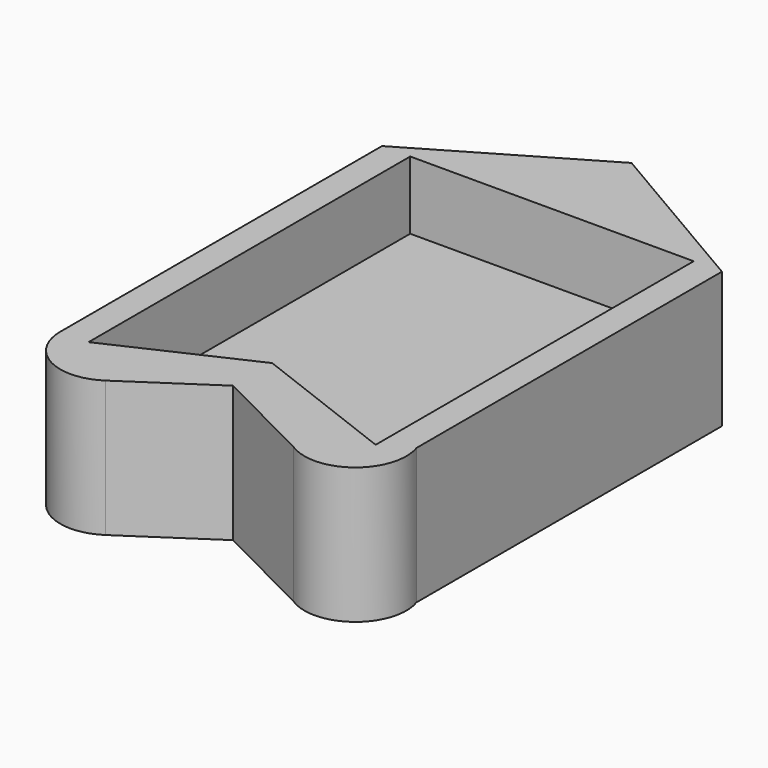
from build123d import *

# Parameters (mm, degrees)
F1_DEPTH = 25.4
F2_DEPTH = 50.8


with BuildPart() as f1:
    # F0 (on Top) → F1 (new body)
    with BuildSketch(Plane.XY):
        Polygon((-29.24404, 0), (-67.34404, 0), (-67.34404, -150.194625), (-29.24404, -132.600497), align=None)
        Polygon((38.567703, -148.530203), (38.567703, 0), (0.467703, 0), (0.467703, -133.873569), align=None)
        Polygon((0.467703, 0), (-29.24404, 0), (-29.24404, -132.600497), (-17.245251, -127.059599), (0.467703, -133.873569), align=None)
    extrude(amount=F1_DEPTH)


with BuildPart() as f2:
    # F0 (on Top) → F2 (new body)
    with BuildSketch(Plane.XY):
        with BuildLine():
            Line((-67.34404, 0), (-77.891297, 0))
            Line((-77.891297, 0), (-77.891297, -150.194625))
            ThreePointArc((-77.891297, -150.194625), (-67.82985, -166.990709), (-48.273616, -166.044755))
            Line((-48.273616, -166.044755), (-17.245251, -145.357362))
            Line((-17.245251, -145.357362), (20.588649, -164.473029))
            ThreePointArc((20.588649, -164.473029), (42.620009, -163.638099), (49.108703, -142.56739))
            Line((49.108703, -142.56739), (49.108703, 0))
            Line((49.108703, 0), (38.567703, 0))
            Line((38.567703, 0), (38.567703, -148.530203))
            Line((38.567703, -148.530203), (0.467703, -133.873569))
            Line((0.467703, -133.873569), (-17.245251, -127.059599))
            Line((-17.245251, -127.059599), (-29.24404, -132.600497))
            Line((-29.24404, -132.600497), (-67.34404, -150.194625))
            Line((-67.34404, -150.194625), (-67.34404, 0))
        make_face()
        Polygon((-14.391297, 37.155245), (-77.891297, 0), (-67.34404, 0), (-29.24404, 0), (0.467703, 0), (38.567703, 0), (49.108703, 0), align=None)
    extrude(amount=F2_DEPTH)


solid = Compound([f1.part, f2.part])
